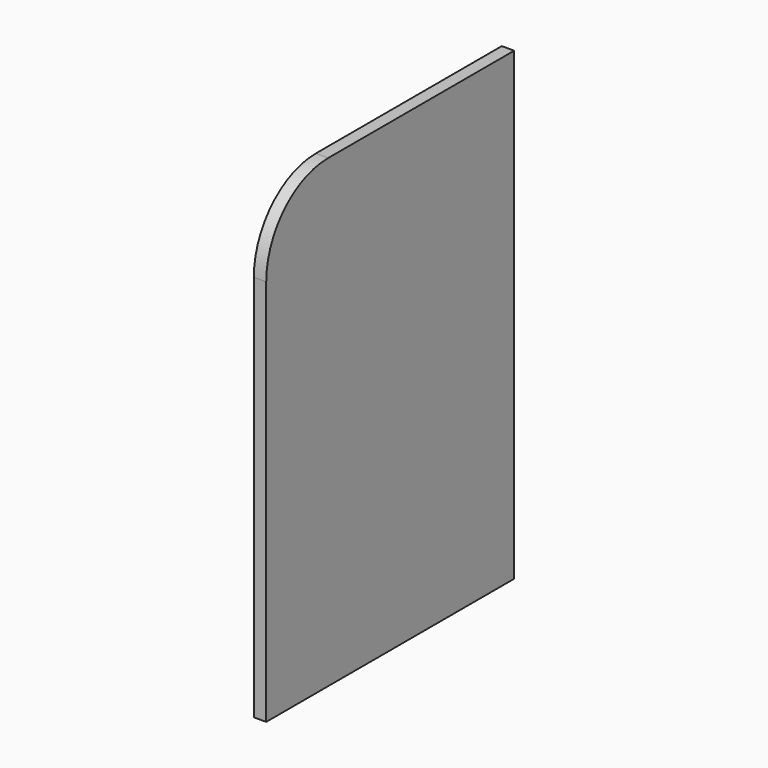
from build123d import *

# Parameters (mm, degrees)
F1_DEPTH = 0.8


with BuildPart() as f1:
    # F0 (on Right) → F1 (new body)
    with BuildSketch(Plane.YZ):
        with BuildLine():
            ThreePointArc((0, 20.843064), (-3.535534, 19.378598), (-5, 15.843064))
            Line((-5, 15.843064), (-5, -9.156936))
            Line((-5, -9.156936), (15, -9.156936))
            Line((15, -9.156936), (15, 20.843064))
            Line((15, 20.843064), (0, 20.843064))
        make_face()
    extrude(amount=F1_DEPTH)


solid = f1.part
